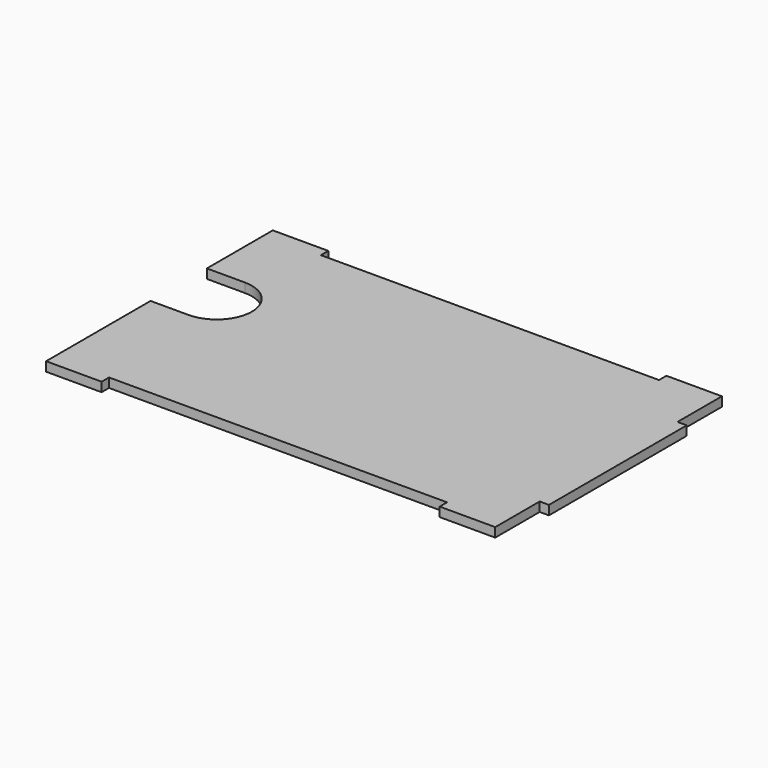
from build123d import *

# Parameters (mm, degrees)
PAD_DEPTH = 5


with BuildPart() as part:
    # Sketch → Pad (new body)
    with BuildSketch(Plane.XY):
        with BuildLine():
            Line((121.25, 46.5), (121.25, 76.5))
            Line((121.25, 76.5), (91.25, 76.5))
            Line((91.25, 76.5), (91.25, 71.5))
            Line((91.25, 71.5), (-91.25, 71.5))
            Line((-91.25, 71.5), (-91.25, 76.5))
            Line((-91.25, 76.5), (-121.25, 76.5))
            Line((-121.25, 76.5), (-121.25, 32))
            Line((-121.25, 32), (-100.75, 32))
            ThreePointArc((-100.75, -6), (-81.75, 13), (-100.75, 32))
            Line((-100.75, -6), (-121.25, -6))
            Line((-121.25, -6), (-121.25, -76.5))
            Line((-121.25, -76.5), (-91.25, -76.5))
            Line((-91.25, -76.5), (-91.25, -71.5))
            Line((-91.25, -71.5), (91.25, -71.5))
            Line((91.25, -71.5), (91.25, -76.5))
            Line((91.25, -76.5), (121.25, -76.5))
            Line((121.25, -76.5), (121.25, -46.5))
            Line((121.25, -46.5), (126.25, -46.5))
            Line((126.25, -46.5), (126.25, 46.5))
            Line((126.25, 46.5), (121.25, 46.5))
        make_face()
    extrude(amount=PAD_DEPTH)


solid = part.part
